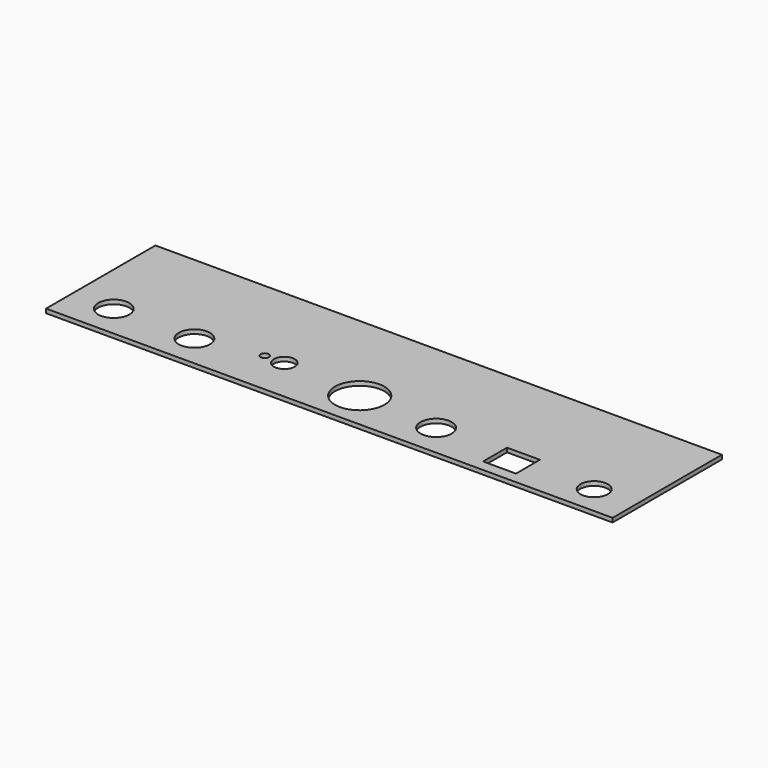
from build123d import *

# Parameters (mm, degrees)
SKETCH_W   = 217.93
SKETCH_H   = 52.58
SKETCH_R   = 6
SKETCH_R_2 = 4
SKETCH_R_3 = 1.6
SKETCH_R_4 = 9.5
SKETCH_R_5 = 5.25
SKETCH_W_2 = 12.65
SKETCH_H_2 = 11.5
PAD_DEPTH  = 1.6


with BuildPart() as part:
    # Sketch → Pad (new body)
    with BuildSketch(Plane.XY):
        Rectangle(SKETCH_W, SKETCH_H)
        with Locations((-93, -13.69)):
            Circle(SKETCH_R, mode=Mode.SUBTRACT)
        with Locations((-62, -13.69)):
            Circle(SKETCH_R, mode=Mode.SUBTRACT)
        with Locations((31, -13.69)):
            Circle(SKETCH_R, mode=Mode.SUBTRACT)
        with Locations((-31, -9.19)):
            Circle(SKETCH_R_2, mode=Mode.SUBTRACT)
        with Locations((-38.5, -9.19)):
            Circle(SKETCH_R_3, mode=Mode.SUBTRACT)
        with Locations((0, -11.69)):
            Circle(SKETCH_R_4, mode=Mode.SUBTRACT)
        with Locations((93, -15.19)):
            Circle(SKETCH_R_5, mode=Mode.SUBTRACT)
        with Locations((62, -16.19)):
            Rectangle(SKETCH_W_2, SKETCH_H_2, mode=Mode.SUBTRACT)
    extrude(amount=PAD_DEPTH)


solid = part.part
